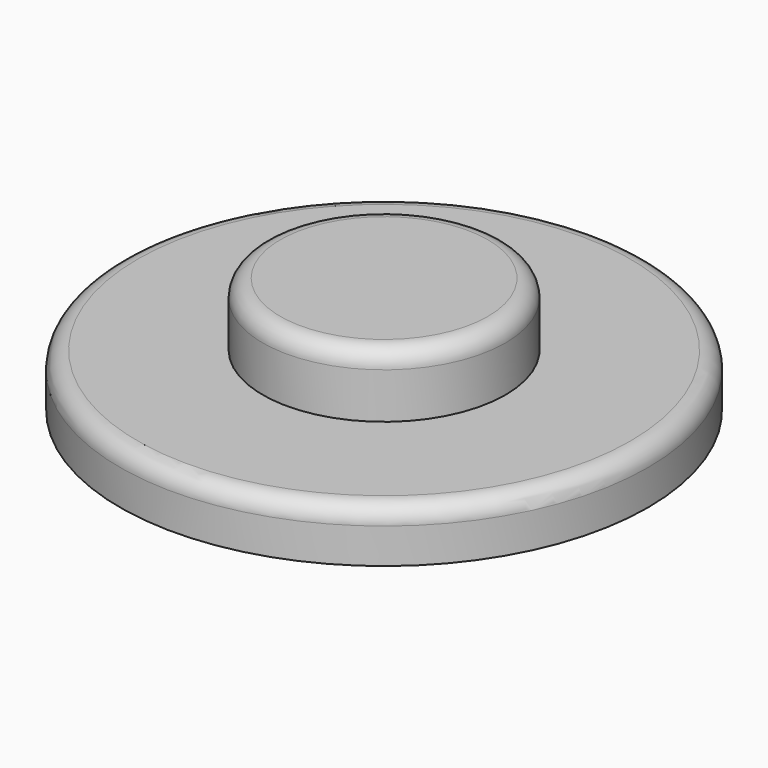
from build123d import *

# Parameters (mm, degrees)
F0_R     = 7.5
F1_DEPTH = 1.5
F2_R     = 3.45
F3_DEPTH = 1.8
F4_R     = 0.5
F5_R     = 0.5


with BuildPart() as f1:
    # F0 (on Top) → F1 (new body)
    with BuildSketch(Plane.XY):
        Circle(F0_R)
    extrude(amount=F1_DEPTH)

    # F2 (on face) → F3 (join)
    with BuildSketch(Plane.XY.offset(1.5)):
        Circle(F2_R)
    extrude(amount=F3_DEPTH)

    # F4
    f4_edges = [f1.edges().sort_by_distance(p)[0] for p in [
        (-3.45, 0, 3.3),
    ]]
    fillet(f4_edges, radius=F4_R)

    # F5
    f5_edges = [f1.edges().sort_by_distance(p)[0] for p in [
        (-7.5, 0, 1.5),
    ]]
    fillet(f5_edges, radius=F5_R)


solid = f1.part
